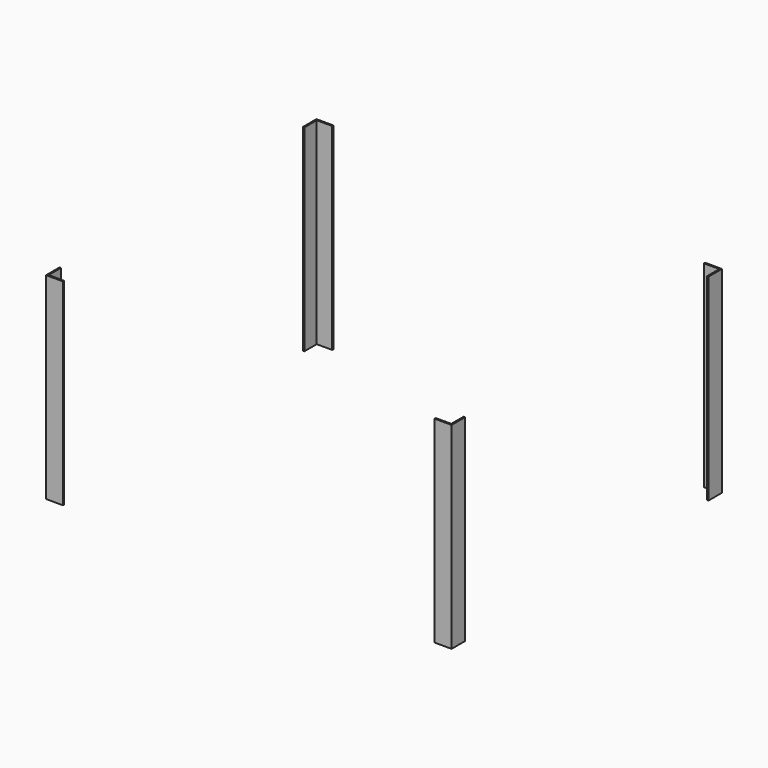
from build123d import *

# Parameters (mm, degrees)
F1_DEPTH = 889


with BuildPart() as f1:
    # F0 (on Top) → F1 (new body)
    with BuildSketch(Plane.XY):
        Polygon((-914.4, -685.8), (-914.4, -762), (-838.2, -762), (-838.2, -755.65), (-908.05, -755.65), (-908.05, -685.8), align=None)
        Polygon((-914.4, 762), (-914.4, 685.8), (-908.05, 685.8), (-908.05, 755.65), (-838.2, 755.65), (-838.2, 762), align=None)
        Polygon((914.4, -762), (914.4, -685.8), (908.05, -685.8), (908.05, -755.65), (838.2, -755.65), (838.2, -762), align=None)
        Polygon((908.05, 685.8), (914.4, 685.8), (914.4, 762), (838.2, 762), (838.2, 755.65), (908.05, 755.65), align=None)
    extrude(amount=F1_DEPTH)


solid = f1.part
